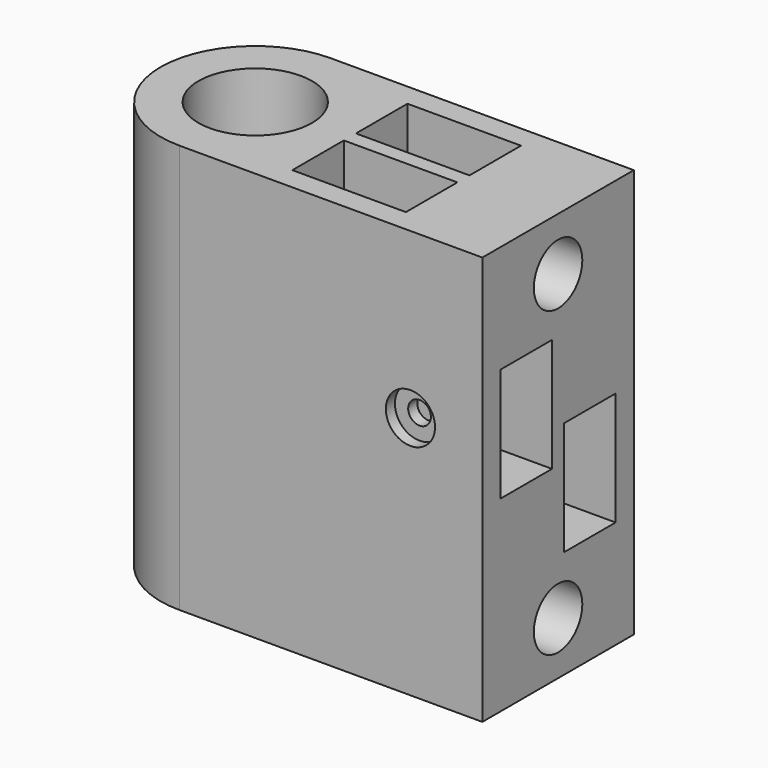
from build123d import *

# Parameters (mm, degrees)
F0_W           = 15
F0_H           = 2
F1_DEPTH       = 54
F2_W           = 8.5
F2_H           = 15
F3_DEPTH       = 12.5
F5_D           = 3
F5_DEPTH       = 18
F5_CBORE_D     = 6.5
F5_CBORE_DEPTH = 1.5
F5_TIP         = 0.9012909285
F7_D           = 3
F7_DEPTH       = 18
F7_CBORE_D     = 6.5
F7_CBORE_DEPTH = 1.5
F7_TIP         = 0.9012909285
F8_R           = 4
F9_DEPTH       = 10


with BuildPart() as f1:
    # F0 (on Top) → F1 (new body)
    with BuildSketch(Plane.XY):
        with BuildLine():
            Line((0, 5), (0, 0))
            Line((0, 0), (40, 0))
            Line((40, 0), (40, 25))
            Line((40, 25), (0, 25))
            Line((0, 25), (0, 20))
            ThreePointArc((0, 20), (5.3033008589, 17.8033008589), (7.5, 12.5))
            ThreePointArc((7.5, 12.5), (5.3033008589, 7.1966991411), (0, 5))
        make_face()
        Polygon((12.5, 13.5), (12.5, 22), (27.5, 22), (27.5, 13.5), (27.5, 11.5), (27.5, 3), (12.5, 3), (12.5, 11.5), align=None, mode=Mode.SUBTRACT)
        with BuildLine():
            ThreePointArc((0, 25), (-12.5, 12.5), (0, 0))
            Line((0, 0), (0, 5))
            ThreePointArc((0, 5), (-7.5, 12.5), (0, 20))
            Line((0, 20), (0, 25))
        make_face()
        with Locations((20, 12.5)):
            Rectangle(F0_W, F0_H)
    extrude(amount=F1_DEPTH)

    # F2 (on face) → F3 (cut, through all)
    with BuildSketch(Plane.YZ.offset(40)):
        with Locations((7.25, 32.25)):
            Rectangle(F2_W, F2_H)
        with Locations((17.75, 21.75)):
            Rectangle(F2_W, F2_H)
    extrude(amount=-F3_DEPTH, mode=Mode.SUBTRACT)

    # F5
    with Locations(Plane.XZ):
        with Locations((30.5, 32.25)):
            CounterBoreHole(F5_D / 2, F5_CBORE_D / 2, F5_CBORE_DEPTH, depth=F5_DEPTH)
            with Locations((0, 0, -(F5_DEPTH + F5_TIP / 2))):  # 118° drill point
                Cone(0, F5_D / 2, F5_TIP, mode=Mode.SUBTRACT)

    # F7
    with Locations(Plane(origin=(0, 25, 0), x_dir=(-1, 0, 0), z_dir=(0, 1, 0))):
        with Locations((-30.5, 21.75)):
            CounterBoreHole(F7_D / 2, F7_CBORE_D / 2, F7_CBORE_DEPTH, depth=F7_DEPTH)
            with Locations((0, 0, -(F7_DEPTH + F7_TIP / 2))):  # 118° drill point
                Cone(0, F7_D / 2, F7_TIP, mode=Mode.SUBTRACT)

    # F8 (on face) → F9 (cut)
    with BuildSketch(Plane.YZ.offset(40)):
        with Locations((12.5, 47)):
            Circle(F8_R)
        with Locations((12.5, 7)):
            Circle(F8_R)
    extrude(amount=-F9_DEPTH, mode=Mode.SUBTRACT)

    # F11 (on offset) → F12 (revolve)
    with BuildSketch(Plane.XZ.offset(-12.5)):
        Polygon((6.5, 26.6917535926), (7.5, 25.5), (7.5, 28.5), (6.5, 27.3082464074), align=None)
    revolve(axis=Axis((0, 12.5, 27), (0, 0, 1)))


solid = f1.part
